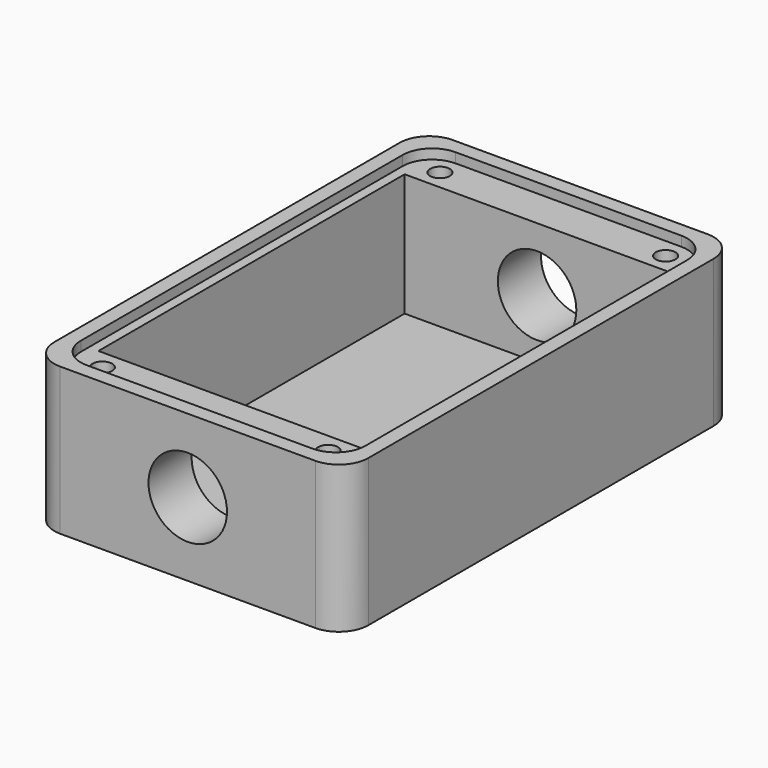
from build123d import *

# Parameters (mm, degrees)
SKETCH_W                      = 32
SKETCH_H                      = 50
PAD_DEPTH                     = 15
SKETCH001_W                   = 27
SKETCH001_H                   = 39
POCKET_DEPTH                  = 13.5
FILLET_R                      = 3
SKETCH002_W                   = 29
SKETCH002_H                   = 47
POCKET001_DEPTH               = 1
FILLET001_R                   = 3
SKETCH003_R                   = 4
POCKET002_DEPTH               = 50.001
SKETCH007_R                   = 1
POCKET004_DEPTH               = 5
SKETCH007_MIRRORED002_2_R     = 1
POCKET004_MIRRORED002_2_DEPTH = 5


with BuildPart() as part:
    # Sketch → Pad (new body)
    with BuildSketch(Plane.XY):
        Rectangle(SKETCH_W, SKETCH_H)
    extrude(amount=PAD_DEPTH)

    # Sketch001 (on Face6 of Pad) → Pocket (cut)
    with BuildSketch(Plane.XY.offset(15)):
        Rectangle(SKETCH001_W, SKETCH001_H)
    extrude(amount=-POCKET_DEPTH, mode=Mode.SUBTRACT)

    # Fillet
    fillet_edges = [part.edges().sort_by_distance(p)[0] for p in [
        (-16, -25, 7.5),
        (16, -25, 7.5),
        (-16, 25, 7.5),
        (16, 25, 7.5),
    ]]
    fillet(fillet_edges, radius=FILLET_R)

    # Sketch002 (on Face5 of Fillet) → Pocket001 (cut)
    with BuildSketch(Plane.XY.offset(15)):
        Rectangle(SKETCH002_W, SKETCH002_H)
    extrude(amount=-POCKET001_DEPTH, mode=Mode.SUBTRACT)

    # Fillet001
    fillet001_edges = [part.edges().sort_by_distance(p)[0] for p in [
        (-14.5, 23.5, 14.5),
        (14.5, 23.5, 14.5),
        (-14.5, -23.5, 14.5),
        (14.5, -23.5, 14.5),
    ]]
    fillet(fillet001_edges, radius=FILLET001_R)

    # Sketch003 (on Face17 of Fillet001) → Pocket002 (cut, through all)
    with BuildSketch(Plane.XZ.offset(25)):
        with Locations((0, 7.5)):
            Circle(SKETCH003_R)
    extrude(amount=-POCKET002_DEPTH, mode=Mode.SUBTRACT)

    # Sketch007 (on Face18 of Pocket002) → Pocket004 (cut)
    with BuildSketch(Plane.XY.offset(14)):
        with Locations((-11.5, 21.5)):
            Circle(SKETCH007_R)
    pocket004 = extrude(amount=-POCKET004_DEPTH, mode=Mode.SUBTRACT)

    # Sketch007 Mirrored002 2 → Pocket004 Mirrored002 2 (cut)
    with BuildSketch(Plane(origin=(0, 0, 14), x_dir=(-1, 0, 0), z_dir=(0, 0, -1))):
        with Locations((-11.5, 21.5)):
            Circle(SKETCH007_MIRRORED002_2_R)
    pocket004_mirrored002_2 = extrude(amount=POCKET004_MIRRORED002_2_DEPTH, mode=Mode.SUBTRACT)

    # Mirrored003: Pocket004, Pocket004 Mirrored002 2 across Sketch007 H_Axis
    add(pocket004.mirror(Plane(origin=(0, 0, 14), x_dir=(0, 0, 1), z_dir=(0, 1, 0))), mode=Mode.SUBTRACT)
    add(pocket004_mirrored002_2.mirror(Plane(origin=(0, 0, 14), x_dir=(0, 0, 1), z_dir=(0, 1, 0))), mode=Mode.SUBTRACT)


solid = part.part
